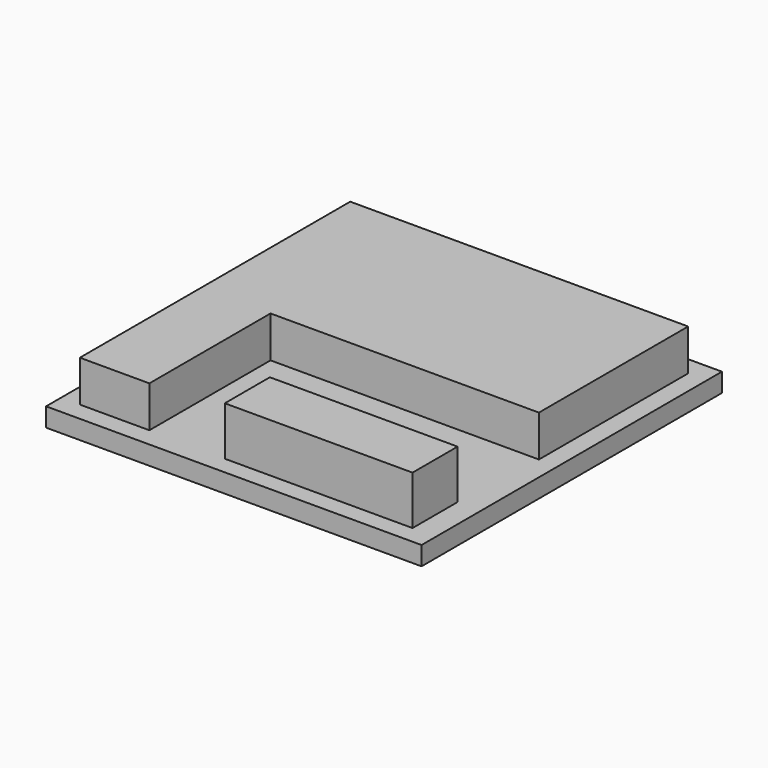
from build123d import *

# Parameters (mm, degrees)
F0_W     = 10
F0_H     = 10
F1_DEPTH = 0.5
F3_DEPTH = 1.1
F4_W     = 5
F4_H     = 1.5
F5_DEPTH = 1.3


with BuildPart() as f1:
    # F0 (on Top) → F1 (new body)
    with BuildSketch(Plane.XY):
        with Locations((5, 5)):
            Rectangle(F0_W, F0_H)
    extrude(amount=F1_DEPTH)

    # F2 (on face) → F3 (join)
    with BuildSketch(Plane.XY.offset(0.5)):
        Polygon((0.5, 9.5), (0.5, 0.5), (2.351106, 0.5), (2.351106, 4.532744), (9.5, 4.532744), (9.5, 9.5), align=None)
    extrude(amount=F3_DEPTH)

    # F4 (on face) → F5 (join)
    with BuildSketch(Plane.XY.offset(0.5)):
        with Locations((6.876147, 1.229358)):
            Rectangle(F4_W, F4_H)
    extrude(amount=F5_DEPTH)


solid = f1.part
